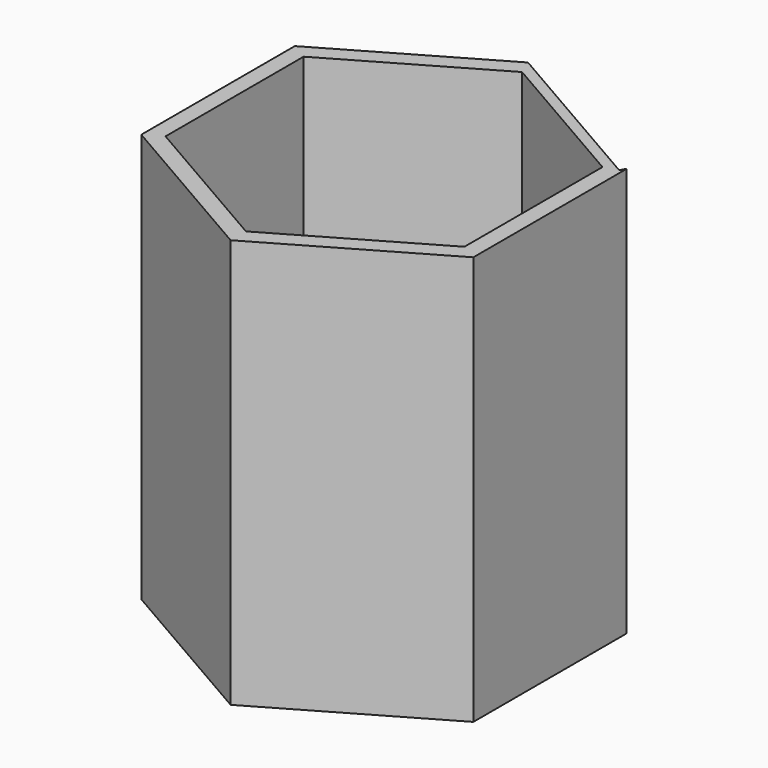
from build123d import *

# Parameters (mm, degrees)
PAD_DEPTH       = 30
PAD001_DEPTH    = 2
SKETCH002_R     = 0.739951
POCKET_DEPTH    = 1
SKETCH003_R     = 1.2
POCKET001_DEPTH = 5


with BuildPart() as part:
    # Sketch → Pad (new body)
    with BuildSketch(Plane.XY):
        Polygon((-0.50397, 14.713397), (-12.984903, 7.508821), (-12.99, -7.5), (0, -14.99967), (12.99, -7.5), (12.99, 7.5), (12.74, 7.066987), align=None)
        Polygon((0, 13.49967), (-11.691057, 6.749835), (-11.691057, -6.749835), (0, -13.49967), (11.691057, -6.749835), (11.691057, 6.749835), align=None, mode=Mode.SUBTRACT)
    extrude(amount=PAD_DEPTH)

    # Sketch001 (on Face14 of Pad) → Pad001 (join)
    with BuildSketch(Plane(origin=(0, 0, 0), x_dir=(1, 0, 0), z_dir=(0, 0, -1))):
        Polygon((0, 14.99967), (12.99, 7.5), (12.99, -7.5), (12.74, -7.066987), (-0.50397, -14.713397), (-12.984903, -7.508821), (-12.99, 7.5), align=None)
    extrude(amount=PAD001_DEPTH)

    # Sketch002 (on Face10 of Pad001) → Pocket (cut)
    with BuildSketch(Plane(origin=(0, 0, -2), x_dir=(1, 0, 0), z_dir=(0, 0, -1))):
        with Locations((5.572448, -8.92072)):
            Circle(SKETCH002_R)
    extrude(amount=-POCKET_DEPTH, mode=Mode.SUBTRACT)

    # Sketch003 (on Face10 of Pocket) → Pocket001 (cut)
    with BuildSketch(Plane(origin=(0, 0, -2), x_dir=(1, 0, 0), z_dir=(0, 0, -1))):
        with Locations((0, 5)):
            Circle(SKETCH003_R)
        with Locations((0, -5)):
            Circle(SKETCH003_R)
    extrude(amount=-POCKET001_DEPTH, mode=Mode.SUBTRACT)


solid = part.part
